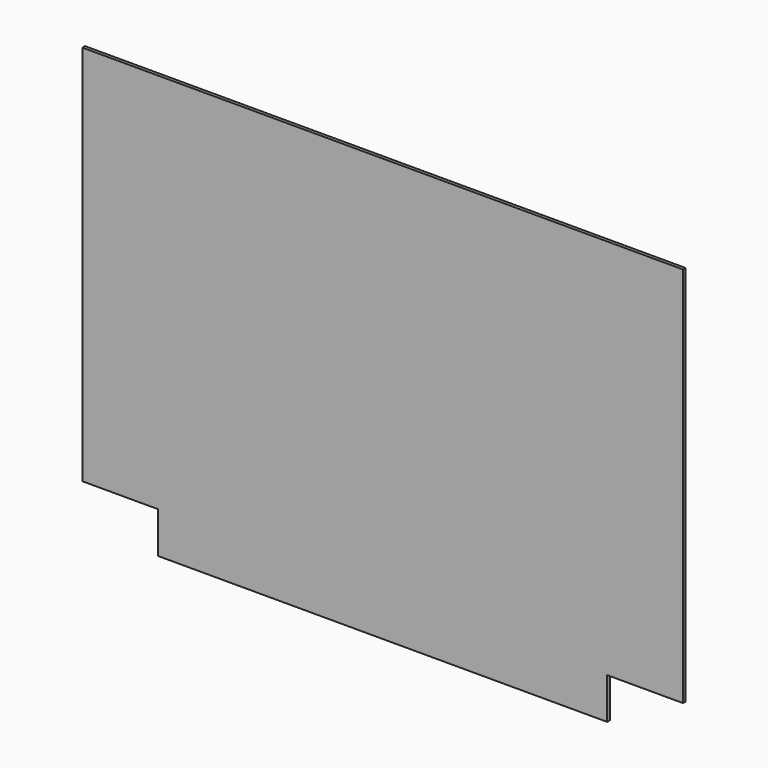
from build123d import *

# Parameters (mm, degrees)
F0_W     = 546.735
F0_H     = 347.5
F1_DEPTH = 3
F2_W     = 408.735
F2_H     = 3
F3_DEPTH = 37.5


with BuildPart() as f1:
    # F0 (on Front) → F1 (new body)
    with BuildSketch(Plane.XZ):
        Rectangle(F0_W, F0_H)
    extrude(amount=F1_DEPTH)

    # F2 (on face) → F3 (join)
    with BuildSketch(Plane(origin=(0, 0, -173.75), x_dir=(1, 0, 0), z_dir=(0, 0, -1))):
        with Locations((0, 1.5)):
            Rectangle(F2_W, F2_H)
    extrude(amount=F3_DEPTH)


solid = f1.part
